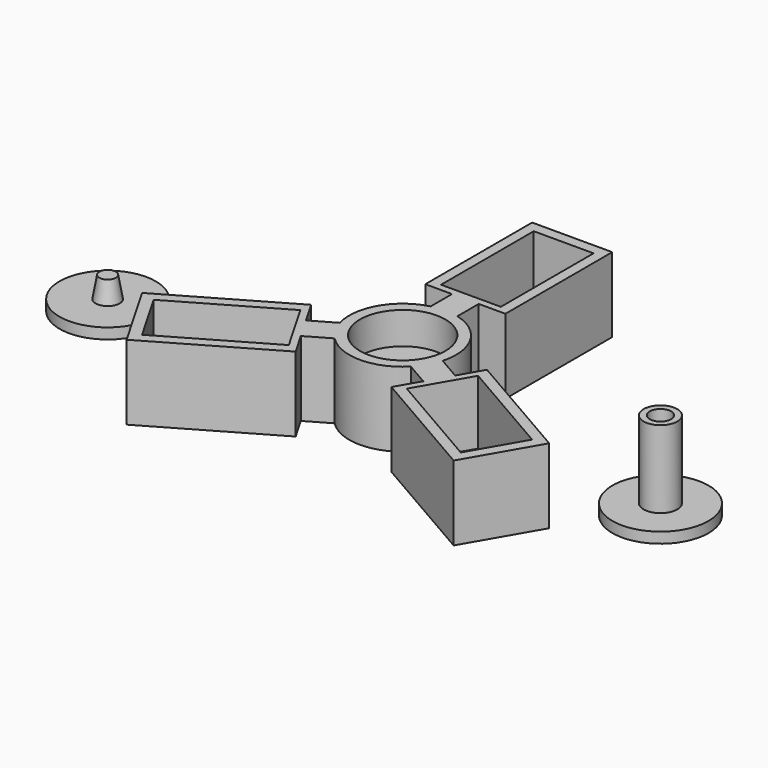
from build123d import *

# Parameters (mm, degrees)
F1_DEPTH  = 2
F2_W      = 11.2
F2_H      = 21.7
F3_DEPTH  = 12
F4_R      = 3.5
F5_DEPTH  = 25
F6_R      = 8
F7_DEPTH  = 6
F8_R      = 9
F9_DEPTH  = 2
F10_R     = 3.15
F11_DEPTH = 14.5
F12_R     = 2
F13_DEPTH = 5
F14_R     = 9
F15_DEPTH = 2
F16_R     = 2.25
F17_DEPTH = 4
F17_TAPER = 10


with BuildPart() as f1:
    # F0 (on Top) → F1 (new body)
    with BuildSketch(Plane.XY):
        with BuildLine():
            ThreePointArc((9.6352549156, -2.6761656733), (9.9083941473, -1.3504537837), (10, 0))
            ThreePointArc((10, 0), (7.9056941504, 6.123724357), (2.5, 9.6824583655))
            ThreePointArc((2.5, 9.6824583655), (0, 10), (-2.5, 9.6824583655))
            ThreePointArc((-2.5, 9.6824583655), (-8.6602540378, 5), (-9.6352549156, -2.6761656733))
            ThreePointArc((-9.6352549156, -2.6761656733), (-8.6602540378, -5), (-7.1352549156, -7.0062926922))
            ThreePointArc((-7.1352549156, -7.0062926922), (0, -10), (7.1352549156, -7.0062926922))
            ThreePointArc((7.1352549156, -7.0062926922), (8.6602540378, -5), (9.6352549156, -2.6761656733))
        make_face()
        with BuildLine():
            ThreePointArc((-2.5, 9.6824583655), (0, 10), (2.5, 9.6824583655))
            Line((2.5, 9.6824583655), (2.5, 14.6824583655))
            Line((2.5, 14.6824583655), (-2.5, 14.6824583655))
            Line((-2.5, 14.6824583655), (-2.5, 9.6824583655))
        make_face()
        with BuildLine():
            Line((13.9653819345, -5.1761656733), (9.6352549156, -2.6761656733))
            ThreePointArc((9.6352549156, -2.6761656733), (8.6602540378, -5), (7.1352549156, -7.0062926922))
            Line((7.1352549156, -7.0062926922), (11.4653819345, -9.5062926922))
            Line((11.4653819345, -9.5062926922), (13.9653819345, -5.1761656733))
        make_face()
        Polygon((-2.5, 14.6824583655), (2.5, 14.6824583655), (7.5, 14.6824583655), (7.5, 39.6824583655), (-7.5, 39.6824583655), (-7.5, 14.6824583655), align=None)
        Polygon((16.4653819345, -0.8460386544), (13.9653819345, -5.1761656733), (11.4653819345, -9.5062926922), (8.9653819345, -13.8364197111), (30.6160170292, -26.3364197111), (38.1160170292, -13.3460386544), align=None)
        with BuildLine():
            ThreePointArc((-7.1352549156, -7.0062926922), (-8.6602540378, -5), (-9.6352549156, -2.6761656733))
            Line((-9.6352549156, -2.6761656733), (-13.9653819345, -5.1761656733))
            Line((-13.9653819345, -5.1761656733), (-11.4653819345, -9.5062926922))
            Line((-11.4653819345, -9.5062926922), (-7.1352549156, -7.0062926922))
        make_face()
        Polygon((-11.4653819345, -9.5062926922), (-13.9653819345, -5.1761656733), (-16.4653819345, -0.8460386544), (-38.1160170292, -13.3460386544), (-30.6160170292, -26.3364197111), (-8.9653819345, -13.8364197111), align=None)
    extrude(amount=F1_DEPTH)

    # F2 (on face) → F3 (join)
    with BuildSketch(Plane.XY.offset(2)):
        with BuildLine():
            ThreePointArc((9.6352549156, -2.6761656733), (8.6602540378, 5), (2.5, 9.6824583655))
            Line((2.5, 9.6824583655), (2.5, 14.6824583655))
            Line((2.5, 14.6824583655), (7.5, 14.6824583655))
            Line((7.5, 14.6824583655), (7.5, 39.6824583655))
            Line((7.5, 39.6824583655), (-7.5, 39.6824583655))
            Line((-7.5, 39.6824583655), (-7.5, 14.6824583655))
            Line((-7.5, 14.6824583655), (-2.5, 14.6824583655))
            Line((-2.5, 14.6824583655), (-2.5, 9.6824583655))
            ThreePointArc((-2.5, 9.6824583655), (-8.6602540378, 5), (-9.6352549156, -2.6761656733))
            Line((-9.6352549156, -2.6761656733), (-13.9653819345, -5.1761656733))
            Line((-13.9653819345, -5.1761656733), (-16.4653819345, -0.8460386544))
            Line((-16.4653819345, -0.8460386544), (-38.1160170292, -13.3460386544))
            Line((-38.1160170292, -13.3460386544), (-30.6160170292, -26.3364197111))
            Line((-30.6160170292, -26.3364197111), (-8.9653819345, -13.8364197111))
            Line((-8.9653819345, -13.8364197111), (-11.4653819345, -9.5062926922))
            Line((-11.4653819345, -9.5062926922), (-7.1352549156, -7.0062926922))
            ThreePointArc((-7.1352549156, -7.0062926922), (0, -10), (7.1352549156, -7.0062926922))
            Line((7.1352549156, -7.0062926922), (11.4653819345, -9.5062926922))
            Line((11.4653819345, -9.5062926922), (8.9653819345, -13.8364197111))
            Line((8.9653819345, -13.8364197111), (30.6160170292, -26.3364197111))
            Line((30.6160170292, -26.3364197111), (38.1160170292, -13.3460386544))
            Line((38.1160170292, -13.3460386544), (16.4653819345, -0.8460386544))
            Line((16.4653819345, -0.8460386544), (13.9653819345, -5.1761656733))
            Line((13.9653819345, -5.1761656733), (9.6352549156, -2.6761656733))
        make_face()
        Polygon((-29.8339662216, -23.690971444), (-35.4339662216, -13.9914869216), (-16.6412149595, -3.1414869216), (-11.0412149595, -12.840971444), align=None, mode=Mode.SUBTRACT)
        Polygon((35.4339662216, -13.9914869216), (29.8339662216, -23.690971444), (11.0412149595, -12.840971444), (16.6412149595, -3.1414869216), align=None, mode=Mode.SUBTRACT)
        with Locations((0, 26.8324583655)):
            Rectangle(F2_W, F2_H, mode=Mode.SUBTRACT)
    extrude(amount=F3_DEPTH)

    # F4 (on face) → F5 (cut)
    with BuildSketch(Plane.XY.offset(14)):
        Circle(F4_R)
    extrude(amount=-F5_DEPTH, mode=Mode.SUBTRACT)

    # F6 (on face) → F7 (cut)
    with BuildSketch(Plane.XY.offset(14)):
        Circle(F6_R)
    extrude(amount=-F7_DEPTH, mode=Mode.SUBTRACT)


with BuildPart() as f9:
    # F8 (on Top) → F9 (new body)
    with BuildSketch(Plane.XY):
        with Locations((48.2754893601, 0)):
            Circle(F8_R)
    extrude(amount=F9_DEPTH)

    # F10 (on face) → F11 (join)
    with BuildSketch(Plane.XY.offset(2)):
        with Locations((48.2754893601, 0)):
            Circle(F10_R)
    extrude(amount=F11_DEPTH)

    # F12 (on face) → F13 (cut)
    with BuildSketch(Plane.XY.offset(16.5)):
        with Locations((48.2754893601, 0)):
            Circle(F12_R)
    extrude(amount=-F13_DEPTH, mode=Mode.SUBTRACT)


with BuildPart() as f15:
    # F14 (on Top) → F15 (new body)
    with BuildSketch(Plane.XY):
        with Locations((-55.2410967648, 0)):
            Circle(F14_R)
    extrude(amount=F15_DEPTH)

    # F16 (on face) → F17 (join)
    with BuildSketch(Plane.XY.offset(2)):
        with Locations((-55.2410967648, 0)):
            Circle(F16_R)
    extrude(amount=F17_DEPTH, taper=F17_TAPER)


solid = Compound([f1.part, f9.part, f15.part])
